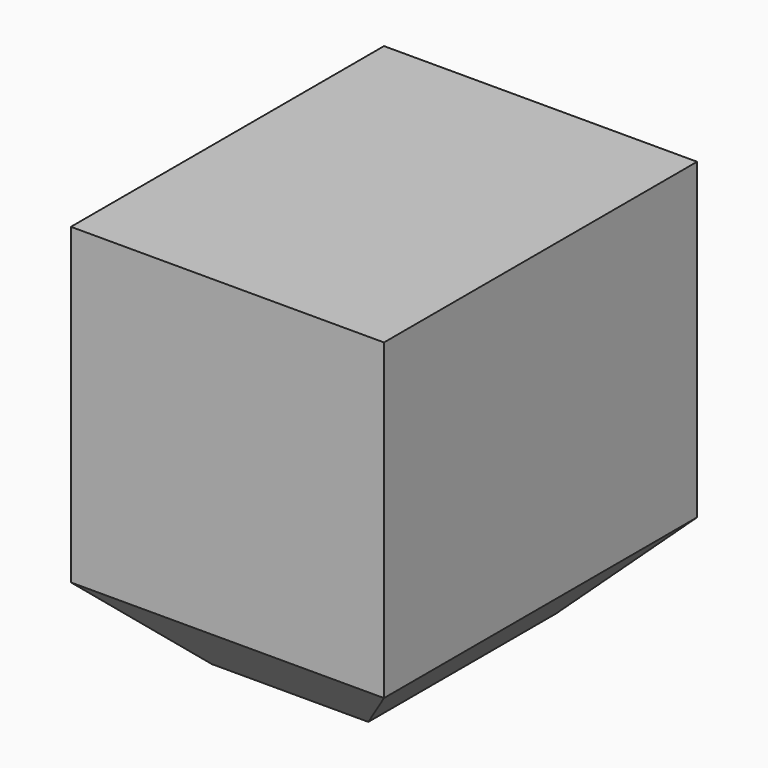
from build123d import *

# Parameters (mm, degrees)
F0_W     = 80
F0_H     = 100
F1_DEPTH = 100
F2_SIZE  = 20


with BuildPart() as f1:
    # F0 (on Top) → F1 (new body)
    with BuildSketch(Plane.XY):
        with Locations((40, -50)):
            Rectangle(F0_W, F0_H)
    extrude(amount=-F1_DEPTH)

    # F2
    f2_edges = [f1.edges().sort_by_distance(p)[0] for p in [
        (80, -50, -100),
        (40, -100, -100),
        (40, 0, -100),
        (0, -50, -100),
    ]]
    chamfer(f2_edges, length=F2_SIZE)


solid = f1.part
